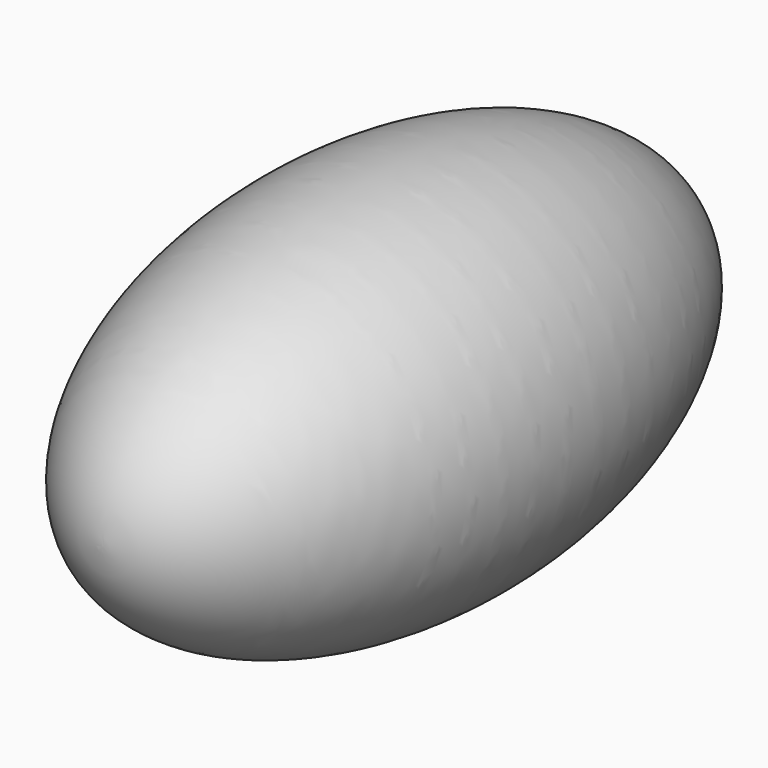
from build123d import *


with BuildPart() as f1:
    # F0 (on Right) → F1 (revolve)
    with BuildSketch(Plane.YZ):
        with BuildLine():
            Line((-75, 0), (75, 0))
            add(Edge.make_bspline(
                [(75, 0), (75, 40), (0, 40), (-75, 40), (-75, 0)],
                knots=[0, 0, 0, 1.5707963268, 1.5707963268, 3.1415926536, 3.1415926536, 3.1415926536], degree=2, weights=[1, 0.7071067812, 1, 0.7071067812, 1]))
        make_face()
    revolve(axis=Axis((0, 0, 0), (0, -1, 0)))


solid = f1.part
